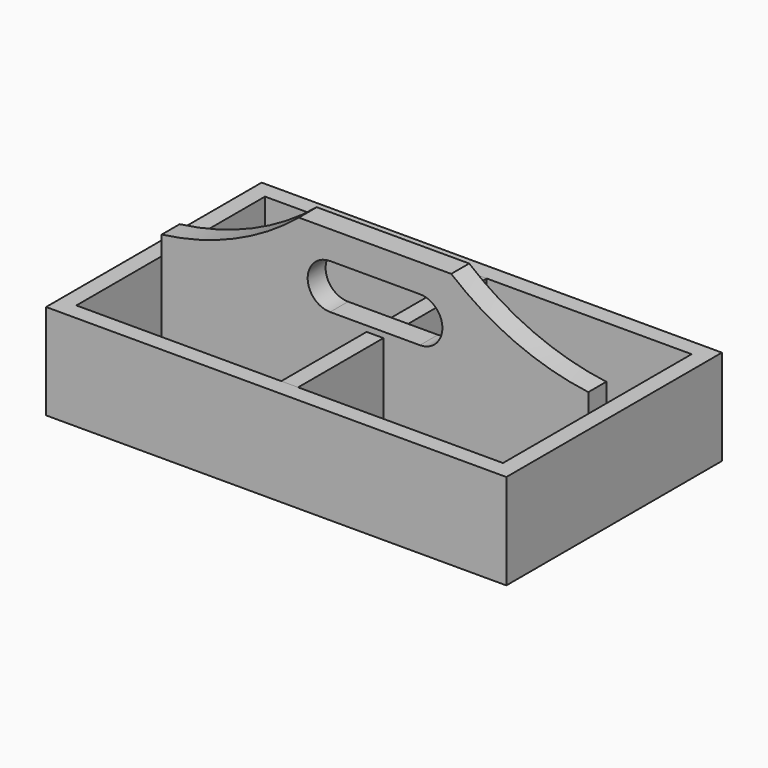
from build123d import *

# Parameters (mm, degrees)
F0_W      = 260.35
F0_H      = 53.975
F1_DEPTH  = 9.525
F2_W      = 9.525
F2_H      = 53.975
F3_DEPTH  = 133.35
F4_W      = 260.3500093699
F4_H      = 53.975061956
F5_DEPTH  = 9.525
F6_W      = 260.3500093699
F6_H      = 9.525
F7_DEPTH  = 152.4
F8_W      = 241.3
F8_H      = 12.7
F9_DEPTH  = 88.9
F11_DEPTH = 12.7
F13_DEPTH = 102.108
F14_W     = 9.525
F14_H     = 60.325
F15_DEPTH = 44.45
F16_W     = 9.525
F16_H     = 60.325
F17_DEPTH = 44.45


with BuildPart() as f1:
    # F0 (on Front) → F1 (new body)
    with BuildSketch(Plane.XZ):
        Rectangle(F0_W, F0_H)
    extrude(amount=F1_DEPTH)

    # F2 (on face) → F3 (join)
    with BuildSketch(Plane(origin=(0, 0, 0), x_dir=(-1, 0, 0), z_dir=(0, 1, 0))):
        with Locations((-125.4125, 0)):
            Rectangle(F2_W, F2_H)
        with Locations((125.4125, 0)):
            Rectangle(F2_W, F2_H)
    extrude(amount=F3_DEPTH)

    # F4 (on face) → F5 (join)
    with BuildSketch(Plane(origin=(0, 133.35, 0), x_dir=(-1, 0, 0), z_dir=(0, 1, 0))):
        with Locations((4.6849e-06, -3.0978e-05)):
            Rectangle(F4_W, F4_H)
    extrude(amount=F5_DEPTH)

    # F6 (on face) → F7 (join)
    with BuildSketch(Plane(origin=(0, 142.875, 0), x_dir=(-1, 0, 0), z_dir=(0, 1, 0))):
        with Locations((4.6849e-06, -22.225030978)):
            Rectangle(F6_W, F6_H)
    extrude(amount=-F7_DEPTH)

    # F8 (on face) → F9 (join)
    with BuildSketch(Plane.XY.offset(-17.462530978)):
        with Locations((0, 66.675)):
            Rectangle(F8_W, F8_H)
    extrude(amount=F9_DEPTH)

    # F10 (on face) → F11 (cut)
    with BuildSketch(Plane.XZ.offset(-60.325)):
        with BuildLine():
            Line((25.4, 55.562469022), (-25.4, 55.562469022))
            ThreePointArc((-25.4, 55.562469022), (-38.1, 42.862469022), (-25.4, 30.162469022))
            Line((-25.4, 30.162469022), (25.4, 30.162469022))
            ThreePointArc((25.4, 30.162469022), (38.1, 42.862469022), (25.4, 55.562469022))
        make_face()
    extrude(amount=-F11_DEPTH, mode=Mode.SUBTRACT)

    # F12 (on Front) → F13 (cut)
    with BuildSketch(Plane.XZ):
        with BuildLine():
            ThreePointArc((0, 129.1245525755), (-12.2174, 188.9125), (0, 248.7004474245))
            ThreePointArc((0, 248.7004474245), (-292.5826, 188.9125), (0, 129.1245525755))
        make_face()
        with BuildLine():
            ThreePointArc((0, 248.7004474245), (9.1318136378, 219.4242334807), (12.2174, 188.9125))
            ThreePointArc((12.2174, 188.9125), (9.1318136378, 158.4007665193), (0, 129.1245525755))
            ThreePointArc((0, 129.1245525755), (170.6943334807, 39.5980863622), (292.5826, 188.9125))
            ThreePointArc((292.5826, 188.9125), (170.6943334807, 338.2269136378), (0, 248.7004474245))
        make_face()
    extrude(amount=-F13_DEPTH, mode=Mode.SUBTRACT)

    # F14 (on face) → F15 (join)
    with BuildSketch(Plane.XY.offset(-17.462530978)):
        with Locations((0, 103.1875)):
            Rectangle(F14_W, F14_H)
    extrude(amount=F15_DEPTH)

    # F16 (on face) → F17 (join)
    with BuildSketch(Plane.XY.offset(-17.462530978)):
        with Locations((0, 30.1625)):
            Rectangle(F16_W, F16_H)
    extrude(amount=F17_DEPTH)


solid = f1.part
